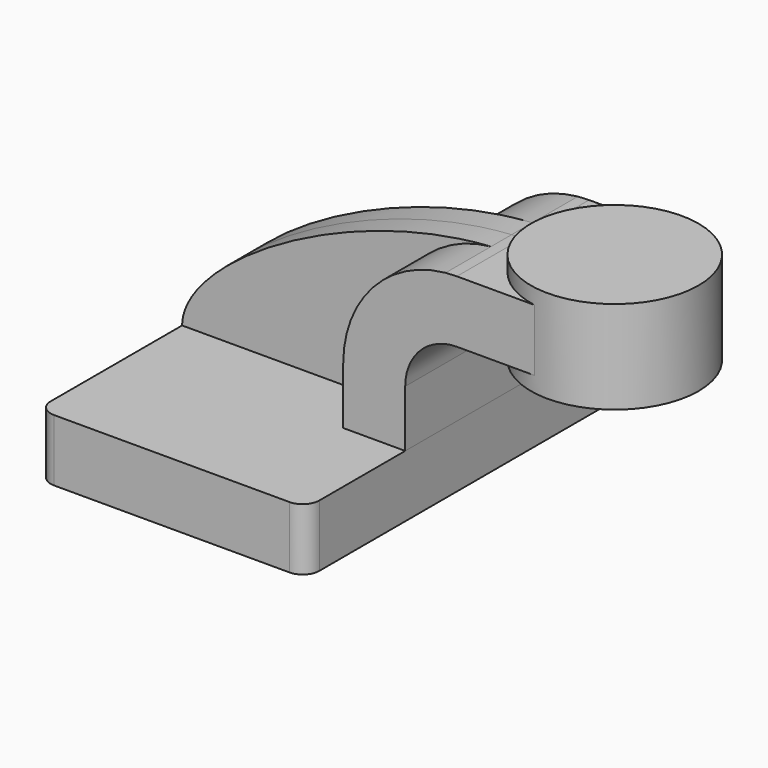
from build123d import *

# Parameters (mm, degrees)
F1_DEPTH = 63.5
F0_W     = 25.0318205603
F0_H     = 19.05
F2_DEPTH = 25.4
F3_DEPTH = 7.9375
F4_R     = 5.08


with BuildPart() as f1:
    # F0 (on Front) → F1 (new body, symmetric)
    with BuildSketch(Plane.XZ):
        Polygon((22.225, 9.525), (-41.275, 9.525), (-41.275, -9.525), (41.275, -9.525), (41.275, 9.525), align=None)
    extrude(amount=F1_DEPTH, both=True)

    # F4
    f4_edges = [f1.edges().sort_by_distance(p)[0] for p in [
        (-41.275, -63.5, 0),
        (41.275, -63.5, 0),
        (-41.275, 63.5, 0),
        (41.275, 63.5, 0),
    ]]
    fillet(f4_edges, radius=F4_R)


with BuildPart() as f2:
    # F0 (on Front) → F2 (new body, symmetric)
    with BuildSketch(Plane.XZ):
        with BuildLine():
            Line((22.225, 27.0002), (22.225, 9.525))
            Line((22.225, 9.525), (41.275, 9.525))
            Line((41.275, 9.525), (41.275, 27.0002))
            ThreePointArc((41.275, 27.0002), (45.9246798487, 38.2255201513), (57.15, 42.8752))
            Line((57.15, 42.8752), (60.325, 42.8752))
            Line((60.325, 42.8752), (60.325, 61.9252))
            Line((60.325, 61.9252), (57.15, 61.9252))
            add(Edge.make_bspline(
                [(53.6827884469, 61.7526685317), (54.8418998381, 61.8284588956), (55.9979441358, 61.8861878058), (57.15, 61.9252)],
                knots=[108.7081177701, 108.7081177701, 108.7081177701, 108.7081177701, 111.5045361635, 111.5045361635, 111.5045361635, 111.5045361635], degree=3))
            ThreePointArc((53.6827884469, 61.7526685317), (31.2574529209, 50.4380247872), (22.225, 27.0002))
        make_face()
        with Locations((72.8409102801, 52.4002)):
            Rectangle(F0_W, F0_H)
    extrude(amount=F2_DEPTH, both=True)

    # F0 (on Front) → F5 (revolve)
    with BuildSketch(Plane.XZ):
        Polygon((85.3568205603, 66.675), (85.3568205603, 61.9252), (85.3568205603, 42.8752), (85.3568205603, 38.1), (111.125, 38.1), (111.125, 66.675), align=None)
    revolve(axis=Axis((85.3568205603, 0, 52.3875), (0, 0, -1)))


with BuildPart() as f3:
    # F0 (on Front) → F3 (new body, symmetric)
    with BuildSketch(Plane.XZ):
        with BuildLine():
            add(Edge.make_bspline(
                [(-41.275, 9.525), (-41.0708948928, 28.5657864577), (8.6234304043, 58.8063898828), (53.6827884469, 61.7526685317)],
                knots=[0, 0, 0, 0, 108.7081177701, 108.7081177701, 108.7081177701, 108.7081177701], degree=3))
            Line((-41.275, 9.525), (22.225, 9.525))
            Line((22.225, 9.525), (22.225, 27.0002))
            ThreePointArc((22.225, 27.0002), (31.2574529209, 50.4380247872), (53.6827884469, 61.7526685317))
        make_face()
    extrude(amount=F3_DEPTH, both=True)


solid = Compound([f1.part, f2.part, f3.part])
